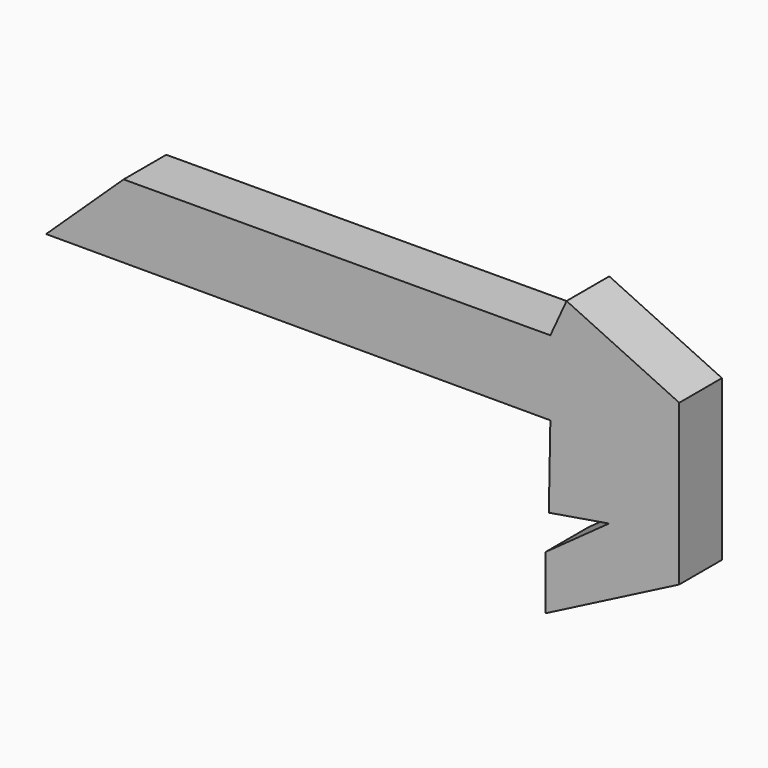
from build123d import *

# Parameters (mm, degrees)
F1_DEPTH = 25.4


with BuildPart() as f1:
    # F0 (on Front) → F1 (new body)
    with BuildSketch(Plane.XZ):
        Polygon((100.484227, 44.774892), (-102.714445, 44.039994), (-139.619038, 9.130239), (100.484227, 9.130239), align=None)
        Polygon((108.200631, 61.677491), (100.484227, 44.774892), (100.484227, 9.130239), (99.749338, -29.819235), (128.410263, -25.042412), (98.279542, -46.721838), (98.279542, -72.44319), (161.848029, -39.740331), (161.848029, 36.459669), align=None)
    extrude(amount=F1_DEPTH)


solid = f1.part
